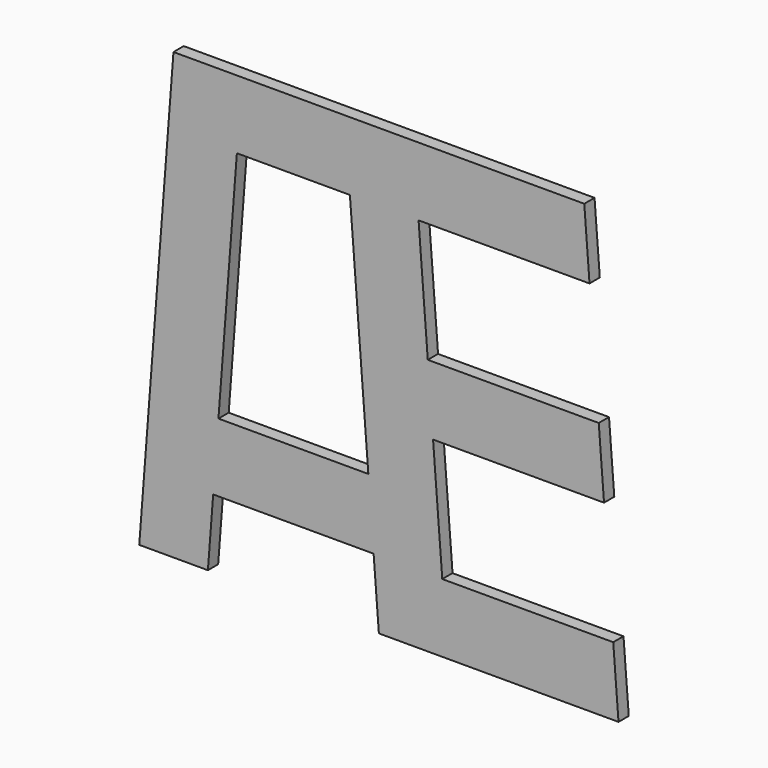
from build123d import *

# Parameters (mm, degrees)
F1_DEPTH = 19.05


with BuildPart() as f1:
    # F0 (on Front) → F1 (new body)
    with BuildSketch(Plane.XZ):
        Polygon((304.8, 660.4), (51.1001483644, 660.4), (58.9155329798, 558.8), (312.6153846154, 558.8), align=None)
        Polygon((94.084763749, 101.6), (101.9001483644, 0), (355.6, 0), (347.7846153846, 101.6), align=None)
        Polygon((-238.0690824048, 203.2), (-245.8844670202, 101.6), (-7.8153846154, 101.6), (-15.6307692308, 203.2), align=None)
        Polygon((326.2923076923, 381), (72.5924560567, 381), (80.4078406721, 279.4), (334.1076923077, 279.4), align=None)
        Polygon((-202.8998516356, 660.4), (-304.8, 660.4), (-355.6, 0), (-253.6998516356, 0), (-245.8844670202, 101.6), (-238.0690824048, 203.2), (-210.715236251, 558.8), align=None)
        Polygon((51.1001483644, 660.4), (-50.8, 660.4), (-42.9846153846, 558.8), (-15.6307692308, 203.2), (-7.8153846154, 101.6), (0, 0), (101.9001483644, 0), (94.084763749, 101.6), (80.4078406721, 279.4), (72.5924560567, 381), (58.9155329798, 558.8), align=None)
        Polygon((-50.8, 660.4), (-202.8998516356, 660.4), (-210.715236251, 558.8), (-42.9846153846, 558.8), align=None)
    extrude(amount=F1_DEPTH)


solid = f1.part
